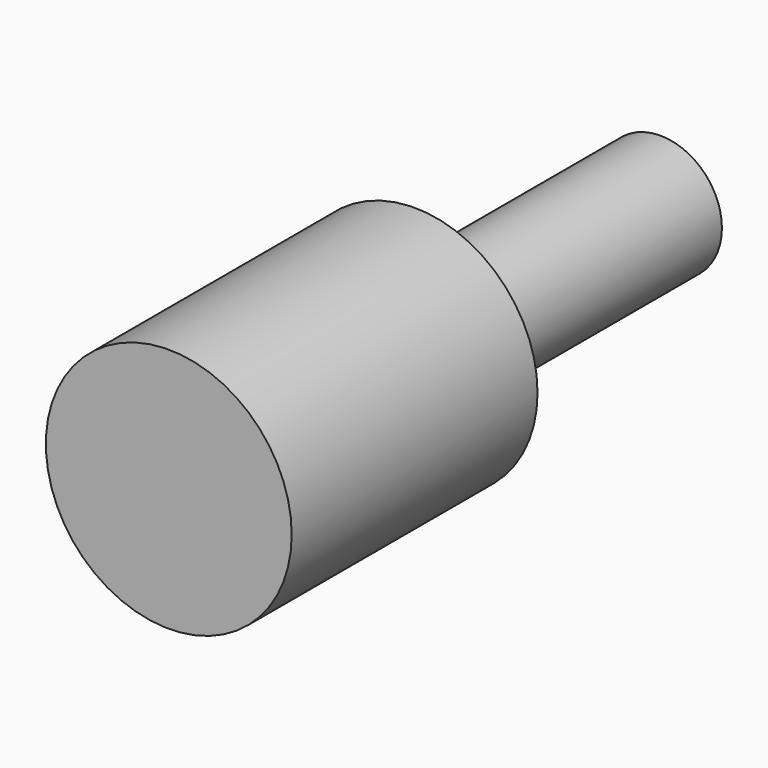
from build123d import *

# Parameters (mm, degrees)
F0_R     = 10
F1_DEPTH = 25
F2_R     = 5
F3_DEPTH = 25


with BuildPart() as f1:
    # F0 (on Front) → F1 (new body)
    with BuildSketch(Plane.XZ):
        Circle(F0_R)
    extrude(amount=F1_DEPTH)

    # F2 (on face) → F3 (join)
    with BuildSketch(Plane.XZ):
        Circle(F2_R)
    extrude(amount=-F3_DEPTH)


solid = f1.part
